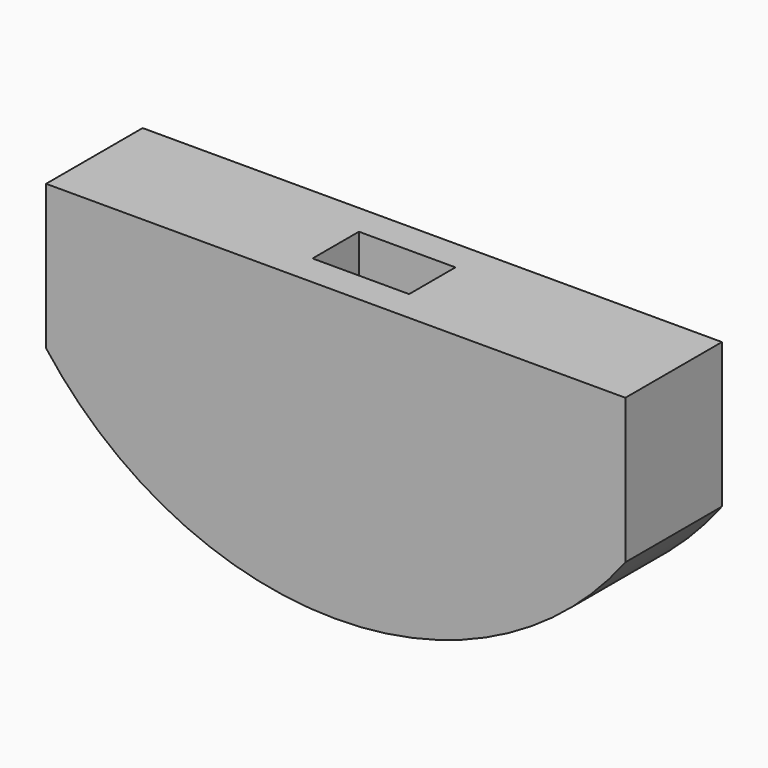
from build123d import *

# Parameters (mm, degrees)
F1_DEPTH = 25
F2_W     = 20
F2_H     = 12
F3_DEPTH = 25


with BuildPart() as f1:
    # F0 (on Front) → F1 (new body)
    with BuildSketch(Plane.XZ):
        with BuildLine():
            Line((60, 30), (-60, 30))
            Line((-60, 30), (-60, 0))
            ThreePointArc((-60, 0), (0, -29.837455), (60, 0))
            Line((60, 0), (60, 30))
        make_face()
    extrude(amount=F1_DEPTH)

    # F2 (on face) → F3 (cut)
    with BuildSketch(Plane.XY.offset(30)):
        with Locations((0, -12.5)):
            Rectangle(F2_W, F2_H)
    extrude(amount=-F3_DEPTH, mode=Mode.SUBTRACT)


solid = f1.part
